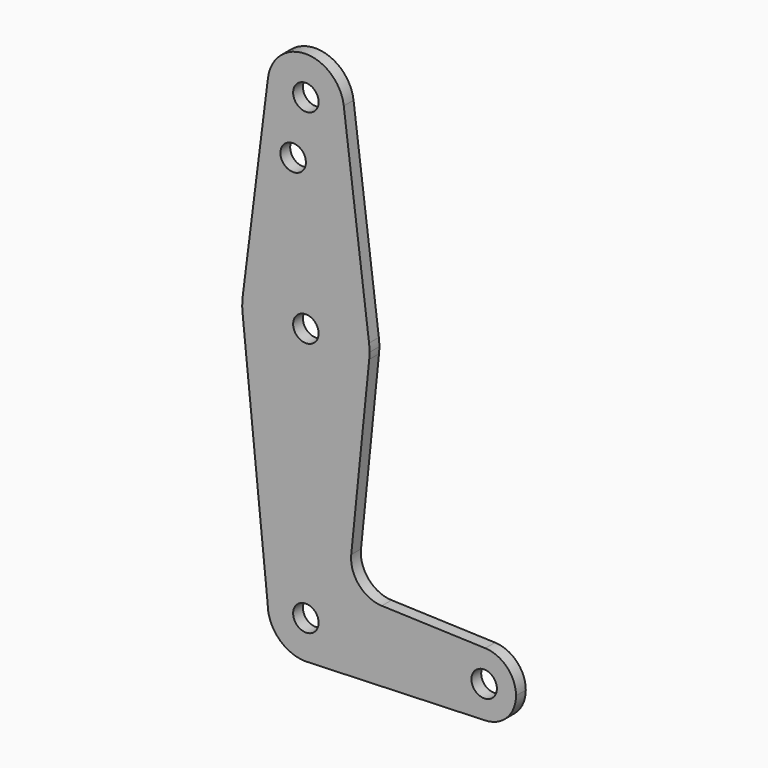
from build123d import *

# Parameters (mm, degrees)
F0_R     = 3.175
F1_DEPTH = 3.048


with BuildPart() as f1:
    # F0 (on Front) → F1 (new body)
    with BuildSketch(Plane.XZ):
        with BuildLine():
            ThreePointArc((9.450293, 115.490625), (9.506305, 114.896483), (9.525, 114.3))
            ThreePointArc((9.525, 114.3), (-0.596483, 104.793695), (-9.450293, 115.490625))
            Line((-9.450293, 115.490625), (-15.750488, 65.484375))
            ThreePointArc((-15.750488, 65.484375), (0, 79.375), (15.750488, 65.484375))
            Line((15.750488, 65.484375), (9.450293, 115.490625))
        make_face()
        with Locations((-3.175, 100.0252)):
            Circle(F0_R, mode=Mode.SUBTRACT)
        with BuildLine():
            ThreePointArc((-9.450293, 115.490625), (-0.596483, 104.793695), (9.525, 114.3))
            ThreePointArc((9.525, 114.3), (9.506305, 114.896483), (9.450293, 115.490625))
            ThreePointArc((9.450293, 115.490625), (0, 123.825), (-9.450293, 115.490625))
        make_face()
        with Locations((0, 114.3)):
            Circle(F0_R, mode=Mode.SUBTRACT)
        with BuildLine():
            ThreePointArc((15.875, 63.5), (15.843841, 64.494139), (15.750488, 65.484375))
            ThreePointArc((15.750488, 65.484375), (0, 79.375), (-15.750488, 65.484375))
            ThreePointArc((-15.750488, 65.484375), (-15.873819, 63.693615), (-15.794203, 61.90038))
            ThreePointArc((-15.794203, 61.90038), (0, 47.625), (15.794203, 61.90038))
            ThreePointArc((15.794203, 61.90038), (15.854788, 62.699171), (15.875, 63.5))
        make_face()
        with Locations((0, 63.5)):
            Circle(F0_R, mode=Mode.SUBTRACT)
        with BuildLine():
            ThreePointArc((15.794203, 61.90038), (0, 47.625), (-15.794203, 61.90038))
            Line((-15.794203, 61.90038), (-9.525, 0))
            ThreePointArc((-9.525, 0), (0, 9.525), (9.525, 0))
            ThreePointArc((9.525, 0), (6.970557, -6.491299), (0.677344, -9.500886))
            Line((0.677344, -9.500886), (44.732405, -7.932475))
            ThreePointArc((44.732405, -7.932475), (36.5125, 0), (44.732405, 7.932475))
            Line((44.732405, 7.932475), (18.934103, 8.850924))
            ThreePointArc((18.934103, 8.850924), (13.224974, 11.57098), (11.307223, 17.59718))
            Line((11.307223, 17.59718), (15.794203, 61.90038))
        make_face()
        with BuildLine():
            ThreePointArc((9.525, 0), (0, 9.525), (-9.525, 0))
            ThreePointArc((-9.525, 0), (-6.735192, -6.735192), (0, -9.525))
            Line((0, -9.525), (0.677344, -9.500886))
            ThreePointArc((0.677344, -9.500886), (6.970557, -6.491299), (9.525, 0))
        make_face()
        Circle(F0_R, mode=Mode.SUBTRACT)
        with BuildLine():
            ThreePointArc((52.3875, 0), (50.161633, 5.51191), (44.732405, 7.932475))
            ThreePointArc((44.732405, 7.932475), (36.5125, 0), (44.732405, -7.932475))
            ThreePointArc((44.732405, -7.932475), (50.161633, -5.51191), (52.3875, 0))
        make_face()
        with Locations((44.45, 0)):
            Circle(F0_R, mode=Mode.SUBTRACT)
    extrude(amount=F1_DEPTH)


solid = f1.part
